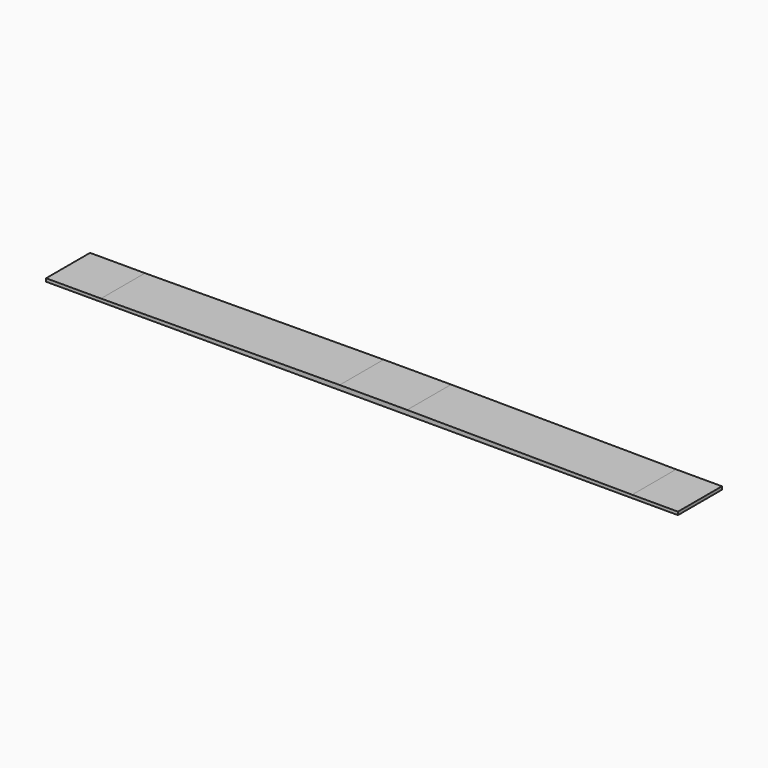
from build123d import *

# Parameters (mm, degrees)
F0_W     = 152.4
F0_H     = 8.58716
F0_W_2   = 187.096558
F0_H_2   = 12.7
F0_W_3   = 127
F0_H_3   = 8.5852
F1_DEPTH = 152.4


with BuildPart() as f1:
    # F0 (on Front) → F1 (new body)
    with BuildSketch(Plane.XZ):
        with Locations((-807.900843, 4.29358)):
            Rectangle(F0_W, F0_H)
        Polygon((-731.700843, 8.58716), (-731.700843, 0), (-69.772355, 0), (-69.772355, 12.7), align=None)
        with Locations((23.775924, 6.35)):
            Rectangle(F0_W_2, F0_H_2)
        Polygon((117.324203, 12.7), (117.324203, 0), (741.499157, 0), (741.499157, 8.5852), align=None)
        with Locations((804.999157, 4.2926)):
            Rectangle(F0_W_3, F0_H_3)
    extrude(amount=F1_DEPTH)


solid = f1.part
